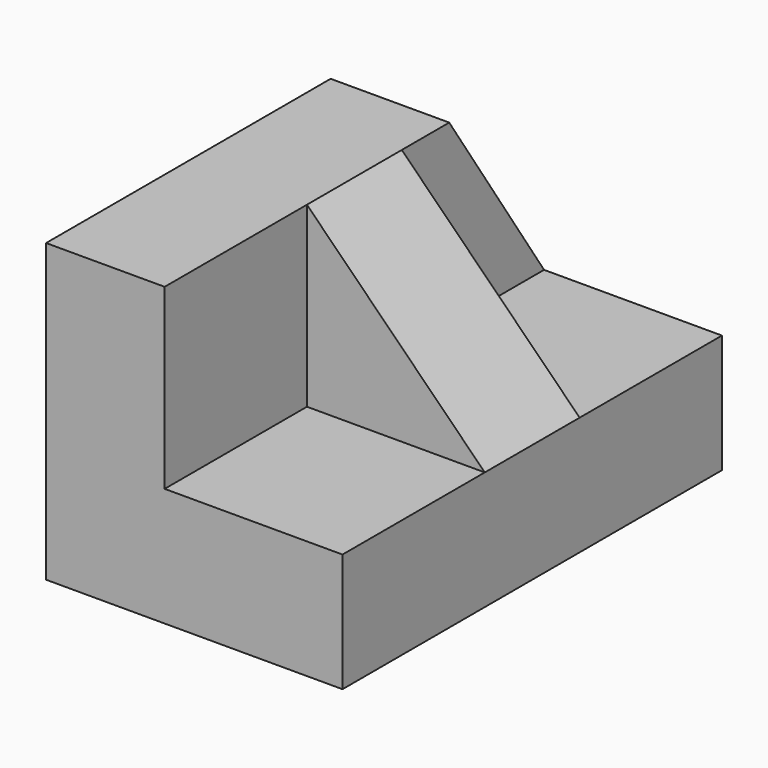
from build123d import *

# Parameters (mm, degrees)
F1_DEPTH = 50.8
F3_DEPTH = 25.4
F4_W     = 12.7
F4_H     = 19.05
F5_DEPTH = 19.05
F7_DEPTH = 31.751


with BuildPart() as f1:
    # F0 (on Front) → F1 (new body)
    with BuildSketch(Plane.XZ):
        Polygon((-52.019869, 49.439846), (-64.719869, 49.439846), (-64.719869, 17.689846), (-32.969869, 17.689846), (-32.969869, 30.389846), (-52.019869, 30.389846), align=None)
    extrude(amount=F1_DEPTH)

    # F2 (on face) → F3 (cut)
    with BuildSketch(Plane.YZ.offset(-52.019869)):
        Polygon((0, 49.439846), (-12.7, 49.439846), (0, 30.389846), align=None)
    extrude(amount=-F3_DEPTH, mode=Mode.SUBTRACT)

    # F4 (on face) → F5 (join)
    with BuildSketch(Plane.YZ.offset(-52.019869)):
        with Locations((-25.4, 39.914846)):
            Rectangle(F4_W, F4_H)
    extrude(amount=F5_DEPTH)

    # F6 (on face) → F7 (cut, through all)
    with BuildSketch(Plane(origin=(0, -19.05, 0), x_dir=(-1, 0, 0), z_dir=(0, 1, 0))):
        Polygon((32.969869, 30.389846), (52.019869, 49.439846), (32.969869, 49.439846), align=None)
    extrude(amount=-F7_DEPTH, mode=Mode.SUBTRACT)


solid = f1.part
